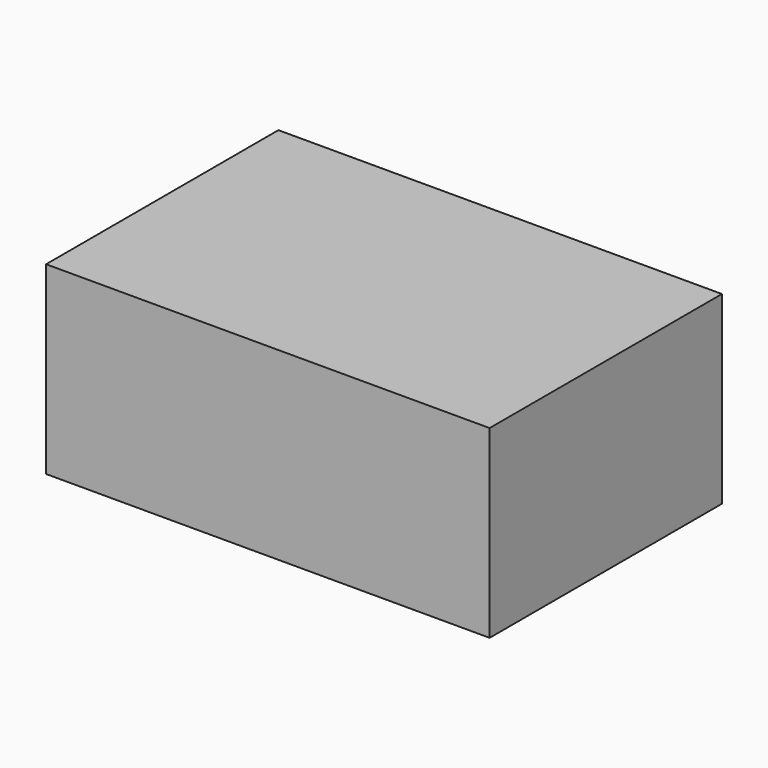
from build123d import *

# Parameters (mm, degrees)
F1_W     = 109.092113
F1_H     = 71.424499
F2_DEPTH = 45.425637


with BuildPart() as f2:
    # F1 (on face) → F2 (new body)
    with BuildSketch(Plane.XY):
        with Locations((5.14604, 0.537165)):
            Rectangle(F1_W, F1_H)
    extrude(amount=F2_DEPTH)


solid = f2.part
